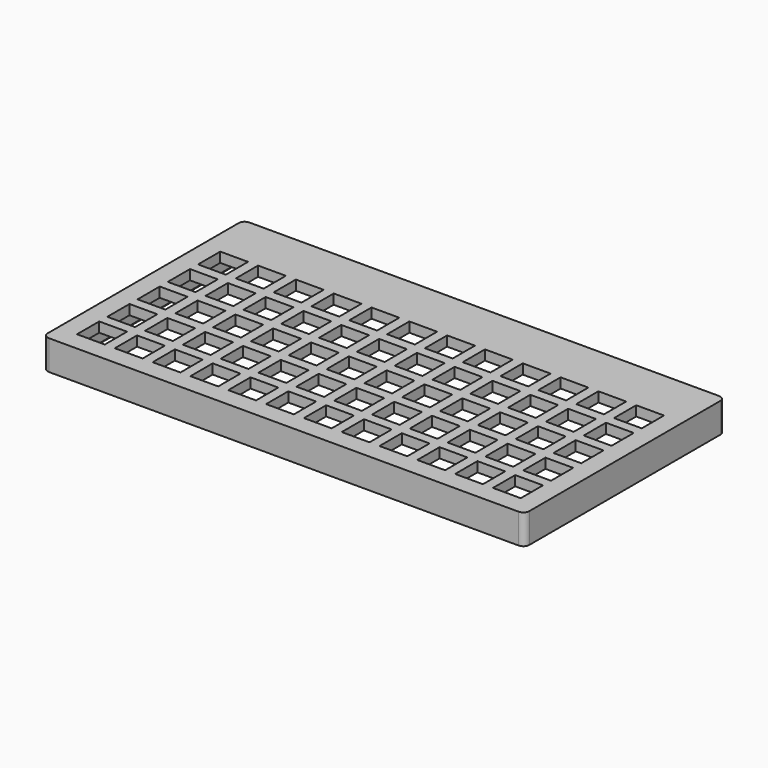
from build123d import *

# Parameters (mm, degrees)
F0_W     = 242.601293
F0_H     = 126.250293
F0_W_2   = 14.00088
F0_H_2   = 14.0009
F0_W_3   = 13.9994
F0_W_4   = 13.9993
F0_W_5   = 14.001
F0_H_3   = 14.0008
F0_H_4   = 14.0007
F0_W_6   = 13.999
F1_DEPTH = 15
F2_R     = 3
F3_W     = 14.00088
F3_H     = 14.0007
F3_W_2   = 13.9994
F3_W_3   = 13.9993
F3_W_4   = 14.001
F3_W_5   = 13.999
F3_H_2   = 14.0008
F3_H_3   = 14.0009
F4_DEPTH = 10
F6_DEPTH = 3.2


with BuildPart() as f1:
    # F0 (on Top) → F1 (new body)
    with BuildSketch(Plane.XY):
        with Locations((0, 1e-06)):
            Rectangle(F0_W, F0_H)
        with Locations((-104.776593, -46.599703)):
            Rectangle(F0_W_2, F0_H_2, mode=Mode.SUBTRACT)
        with Locations((-85.725953, -46.599703)):
            Rectangle(F0_W_3, F0_H_2, mode=Mode.SUBTRACT)
        with Locations((-66.675903, -46.599703)):
            Rectangle(F0_W_4, F0_H_2, mode=Mode.SUBTRACT)
        with Locations((-47.625903, -46.599703)):
            Rectangle(F0_W_4, F0_H_2, mode=Mode.SUBTRACT)
        with Locations((-28.575903, -46.599703)):
            Rectangle(F0_W_4, F0_H_2, mode=Mode.SUBTRACT)
        with Locations((-9.526853, -46.599703)):
            Rectangle(F0_W_5, F0_H_2, mode=Mode.SUBTRACT)
        with Locations((-104.776593, -27.549753)):
            Rectangle(F0_W_2, F0_H_3, mode=Mode.SUBTRACT)
        with Locations((-85.725953, -27.549753)):
            Rectangle(F0_W_3, F0_H_3, mode=Mode.SUBTRACT)
        with Locations((-66.675903, -27.549753)):
            Rectangle(F0_W_4, F0_H_3, mode=Mode.SUBTRACT)
        with Locations((-104.776593, -8.499703)):
            Rectangle(F0_W_2, F0_H_4, mode=Mode.SUBTRACT)
        with Locations((-85.725953, -8.499703)):
            Rectangle(F0_W_3, F0_H_4, mode=Mode.SUBTRACT)
        with Locations((-66.675903, -8.499703)):
            Rectangle(F0_W_4, F0_H_4, mode=Mode.SUBTRACT)
        with Locations((-47.625903, -27.549753)):
            Rectangle(F0_W_4, F0_H_3, mode=Mode.SUBTRACT)
        with Locations((-28.575903, -27.549753)):
            Rectangle(F0_W_4, F0_H_3, mode=Mode.SUBTRACT)
        with Locations((-9.526853, -27.549753)):
            Rectangle(F0_W_5, F0_H_3, mode=Mode.SUBTRACT)
        with Locations((-47.625903, -8.499703)):
            Rectangle(F0_W_4, F0_H_4, mode=Mode.SUBTRACT)
        with Locations((-28.575903, -8.499703)):
            Rectangle(F0_W_4, F0_H_4, mode=Mode.SUBTRACT)
        with Locations((-9.526853, -8.499703)):
            Rectangle(F0_W_5, F0_H_4, mode=Mode.SUBTRACT)
        with Locations((9.523147, -46.599703)):
            Rectangle(F0_W_5, F0_H_2, mode=Mode.SUBTRACT)
        with Locations((28.574147, -46.599703)):
            Rectangle(F0_W_6, F0_H_2, mode=Mode.SUBTRACT)
        with Locations((47.624147, -46.599703)):
            Rectangle(F0_W_6, F0_H_2, mode=Mode.SUBTRACT)
        with Locations((66.674147, -46.599703)):
            Rectangle(F0_W_6, F0_H_2, mode=Mode.SUBTRACT)
        with Locations((85.724147, -46.599703)):
            Rectangle(F0_W_6, F0_H_2, mode=Mode.SUBTRACT)
        with Locations((104.774147, -46.599703)):
            Rectangle(F0_W_6, F0_H_2, mode=Mode.SUBTRACT)
        with Locations((9.523147, -27.549753)):
            Rectangle(F0_W_5, F0_H_3, mode=Mode.SUBTRACT)
        with Locations((28.574147, -27.549753)):
            Rectangle(F0_W_6, F0_H_3, mode=Mode.SUBTRACT)
        with Locations((47.624147, -27.549753)):
            Rectangle(F0_W_6, F0_H_3, mode=Mode.SUBTRACT)
        with Locations((9.523147, -8.499703)):
            Rectangle(F0_W_5, F0_H_4, mode=Mode.SUBTRACT)
        with Locations((28.574147, -8.499703)):
            Rectangle(F0_W_6, F0_H_4, mode=Mode.SUBTRACT)
        with Locations((47.624147, -8.499703)):
            Rectangle(F0_W_6, F0_H_4, mode=Mode.SUBTRACT)
        with Locations((66.674147, -27.549753)):
            Rectangle(F0_W_6, F0_H_3, mode=Mode.SUBTRACT)
        with Locations((85.724147, -27.549753)):
            Rectangle(F0_W_6, F0_H_3, mode=Mode.SUBTRACT)
        with Locations((104.774147, -27.549753)):
            Rectangle(F0_W_6, F0_H_3, mode=Mode.SUBTRACT)
        with Locations((66.674147, -8.499703)):
            Rectangle(F0_W_6, F0_H_4, mode=Mode.SUBTRACT)
        with Locations((85.724147, -8.499703)):
            Rectangle(F0_W_6, F0_H_4, mode=Mode.SUBTRACT)
        with Locations((104.774147, -8.499703)):
            Rectangle(F0_W_6, F0_H_4, mode=Mode.SUBTRACT)
        with Locations((-104.776593, 10.550297)):
            Rectangle(F0_W_2, F0_H_4, mode=Mode.SUBTRACT)
        with Locations((-85.725953, 10.550297)):
            Rectangle(F0_W_3, F0_H_4, mode=Mode.SUBTRACT)
        with Locations((-66.675903, 10.550297)):
            Rectangle(F0_W_4, F0_H_4, mode=Mode.SUBTRACT)
        with Locations((-104.776593, 29.600297)):
            Rectangle(F0_W_2, F0_H_4, mode=Mode.SUBTRACT)
        with Locations((-85.725953, 29.600297)):
            Rectangle(F0_W_3, F0_H_4, mode=Mode.SUBTRACT)
        with Locations((-66.675903, 29.600297)):
            Rectangle(F0_W_4, F0_H_4, mode=Mode.SUBTRACT)
        with Locations((-47.625903, 10.550297)):
            Rectangle(F0_W_4, F0_H_4, mode=Mode.SUBTRACT)
        with Locations((-28.575903, 10.550297)):
            Rectangle(F0_W_4, F0_H_4, mode=Mode.SUBTRACT)
        with Locations((-9.526853, 10.550297)):
            Rectangle(F0_W_5, F0_H_4, mode=Mode.SUBTRACT)
        with Locations((-47.625903, 29.600297)):
            Rectangle(F0_W_4, F0_H_4, mode=Mode.SUBTRACT)
        with Locations((-28.575903, 29.600297)):
            Rectangle(F0_W_4, F0_H_4, mode=Mode.SUBTRACT)
        with Locations((-9.526853, 29.600297)):
            Rectangle(F0_W_5, F0_H_4, mode=Mode.SUBTRACT)
        with Locations((9.523147, 10.550297)):
            Rectangle(F0_W_5, F0_H_4, mode=Mode.SUBTRACT)
        with Locations((28.574147, 10.550297)):
            Rectangle(F0_W_6, F0_H_4, mode=Mode.SUBTRACT)
        with Locations((47.624147, 10.550297)):
            Rectangle(F0_W_6, F0_H_4, mode=Mode.SUBTRACT)
        with Locations((9.523147, 29.600297)):
            Rectangle(F0_W_5, F0_H_4, mode=Mode.SUBTRACT)
        with Locations((28.574147, 29.600297)):
            Rectangle(F0_W_6, F0_H_4, mode=Mode.SUBTRACT)
        with Locations((47.624147, 29.600297)):
            Rectangle(F0_W_6, F0_H_4, mode=Mode.SUBTRACT)
        with Locations((66.674147, 10.550297)):
            Rectangle(F0_W_6, F0_H_4, mode=Mode.SUBTRACT)
        with Locations((85.724147, 10.550297)):
            Rectangle(F0_W_6, F0_H_4, mode=Mode.SUBTRACT)
        with Locations((104.774147, 10.550297)):
            Rectangle(F0_W_6, F0_H_4, mode=Mode.SUBTRACT)
        with Locations((66.674147, 29.600297)):
            Rectangle(F0_W_6, F0_H_4, mode=Mode.SUBTRACT)
        with Locations((85.724147, 29.600297)):
            Rectangle(F0_W_6, F0_H_4, mode=Mode.SUBTRACT)
        with Locations((104.774147, 29.600297)):
            Rectangle(F0_W_6, F0_H_4, mode=Mode.SUBTRACT)
    extrude(amount=-F1_DEPTH)

    # F2
    f2_edges = [f1.edges().sort_by_distance(p)[0] for p in [
        (-121.300646, 63.125147, -7.5),
        (121.300647, 63.125147, -7.5),
        (121.300647, -63.125146, -7.5),
        (-121.300646, -63.125146, -7.5),
    ]]
    fillet(f2_edges, radius=F2_R)

    # F3 (on face) → F4 (cut)
    with BuildSketch(Plane(origin=(0, 0, -15), x_dir=(1, 0, 0), z_dir=(0, 0, -1))):
        with BuildLine():
            Line((-111.300647, -56.125147), (111.300647, -56.125147))
            ThreePointArc((111.300647, -56.125147), (113.421967, -55.246467), (114.300647, -53.125147))
            Line((114.300647, -53.125147), (114.300647, 53.125147))
            ThreePointArc((114.300647, 53.125147), (113.421967, 55.246467), (111.300647, 56.125147))
            Line((111.300647, 56.125147), (-111.300647, 56.125147))
            ThreePointArc((-111.300647, 56.125147), (-113.421967, 55.246467), (-114.300647, 53.125147))
            Line((-114.300647, 53.125147), (-114.300647, -53.125147))
            ThreePointArc((-114.300647, -53.125147), (-113.421967, -55.246467), (-111.300647, -56.125147))
        make_face()
        with Locations((-104.776593, -29.600297)):
            Rectangle(F3_W, F3_H, mode=Mode.SUBTRACT)
        with Locations((-85.725953, -29.600297)):
            Rectangle(F3_W_2, F3_H, mode=Mode.SUBTRACT)
        with Locations((-66.675903, -29.600297)):
            Rectangle(F3_W_3, F3_H, mode=Mode.SUBTRACT)
        with Locations((-104.776593, -10.550297)):
            Rectangle(F3_W, F3_H, mode=Mode.SUBTRACT)
        with Locations((-85.725953, -10.550297)):
            Rectangle(F3_W_2, F3_H, mode=Mode.SUBTRACT)
        with Locations((-66.675903, -10.550297)):
            Rectangle(F3_W_3, F3_H, mode=Mode.SUBTRACT)
        with Locations((-47.625903, -29.600297)):
            Rectangle(F3_W_3, F3_H, mode=Mode.SUBTRACT)
        with Locations((-28.575903, -29.600297)):
            Rectangle(F3_W_3, F3_H, mode=Mode.SUBTRACT)
        with Locations((-9.526853, -29.600297)):
            Rectangle(F3_W_4, F3_H, mode=Mode.SUBTRACT)
        with Locations((-47.625903, -10.550297)):
            Rectangle(F3_W_3, F3_H, mode=Mode.SUBTRACT)
        with Locations((-28.575903, -10.550297)):
            Rectangle(F3_W_3, F3_H, mode=Mode.SUBTRACT)
        with Locations((-9.526853, -10.550297)):
            Rectangle(F3_W_4, F3_H, mode=Mode.SUBTRACT)
        with Locations((9.523147, -29.600297)):
            Rectangle(F3_W_4, F3_H, mode=Mode.SUBTRACT)
        with Locations((28.574147, -29.600297)):
            Rectangle(F3_W_5, F3_H, mode=Mode.SUBTRACT)
        with Locations((47.624147, -29.600297)):
            Rectangle(F3_W_5, F3_H, mode=Mode.SUBTRACT)
        with Locations((9.523147, -10.550297)):
            Rectangle(F3_W_4, F3_H, mode=Mode.SUBTRACT)
        with Locations((28.574147, -10.550297)):
            Rectangle(F3_W_5, F3_H, mode=Mode.SUBTRACT)
        with Locations((47.624147, -10.550297)):
            Rectangle(F3_W_5, F3_H, mode=Mode.SUBTRACT)
        with Locations((66.674147, -29.600297)):
            Rectangle(F3_W_5, F3_H, mode=Mode.SUBTRACT)
        with Locations((85.724147, -29.600297)):
            Rectangle(F3_W_5, F3_H, mode=Mode.SUBTRACT)
        with Locations((104.774147, -29.600297)):
            Rectangle(F3_W_5, F3_H, mode=Mode.SUBTRACT)
        with Locations((66.674147, -10.550297)):
            Rectangle(F3_W_5, F3_H, mode=Mode.SUBTRACT)
        with Locations((85.724147, -10.550297)):
            Rectangle(F3_W_5, F3_H, mode=Mode.SUBTRACT)
        with Locations((104.774147, -10.550297)):
            Rectangle(F3_W_5, F3_H, mode=Mode.SUBTRACT)
        with Locations((-104.776593, 8.499703)):
            Rectangle(F3_W, F3_H, mode=Mode.SUBTRACT)
        with Locations((-85.725953, 8.499703)):
            Rectangle(F3_W_2, F3_H, mode=Mode.SUBTRACT)
        with Locations((-66.675903, 8.499703)):
            Rectangle(F3_W_3, F3_H, mode=Mode.SUBTRACT)
        with Locations((-104.776593, 27.549753)):
            Rectangle(F3_W, F3_H_2, mode=Mode.SUBTRACT)
        with Locations((-85.725953, 27.549753)):
            Rectangle(F3_W_2, F3_H_2, mode=Mode.SUBTRACT)
        with Locations((-66.675903, 27.549753)):
            Rectangle(F3_W_3, F3_H_2, mode=Mode.SUBTRACT)
        with Locations((-47.625903, 8.499703)):
            Rectangle(F3_W_3, F3_H, mode=Mode.SUBTRACT)
        with Locations((-28.575903, 8.499703)):
            Rectangle(F3_W_3, F3_H, mode=Mode.SUBTRACT)
        with Locations((-9.526853, 8.499703)):
            Rectangle(F3_W_4, F3_H, mode=Mode.SUBTRACT)
        with Locations((-47.625903, 27.549753)):
            Rectangle(F3_W_3, F3_H_2, mode=Mode.SUBTRACT)
        with Locations((-28.575903, 27.549753)):
            Rectangle(F3_W_3, F3_H_2, mode=Mode.SUBTRACT)
        with Locations((-9.526853, 27.549753)):
            Rectangle(F3_W_4, F3_H_2, mode=Mode.SUBTRACT)
        with Locations((-104.776593, 46.599703)):
            Rectangle(F3_W, F3_H_3, mode=Mode.SUBTRACT)
        with Locations((-85.725953, 46.599703)):
            Rectangle(F3_W_2, F3_H_3, mode=Mode.SUBTRACT)
        with Locations((-66.675903, 46.599703)):
            Rectangle(F3_W_3, F3_H_3, mode=Mode.SUBTRACT)
        with Locations((-47.625903, 46.599703)):
            Rectangle(F3_W_3, F3_H_3, mode=Mode.SUBTRACT)
        with Locations((-28.575903, 46.599703)):
            Rectangle(F3_W_3, F3_H_3, mode=Mode.SUBTRACT)
        with Locations((-9.526853, 46.599703)):
            Rectangle(F3_W_4, F3_H_3, mode=Mode.SUBTRACT)
        with Locations((9.523147, 8.499703)):
            Rectangle(F3_W_4, F3_H, mode=Mode.SUBTRACT)
        with Locations((28.574147, 8.499703)):
            Rectangle(F3_W_5, F3_H, mode=Mode.SUBTRACT)
        with Locations((47.624147, 8.499703)):
            Rectangle(F3_W_5, F3_H, mode=Mode.SUBTRACT)
        with Locations((9.523147, 27.549753)):
            Rectangle(F3_W_4, F3_H_2, mode=Mode.SUBTRACT)
        with Locations((28.574147, 27.549753)):
            Rectangle(F3_W_5, F3_H_2, mode=Mode.SUBTRACT)
        with Locations((47.624147, 27.549753)):
            Rectangle(F3_W_5, F3_H_2, mode=Mode.SUBTRACT)
        with Locations((66.674147, 8.499703)):
            Rectangle(F3_W_5, F3_H, mode=Mode.SUBTRACT)
        with Locations((85.724147, 8.499703)):
            Rectangle(F3_W_5, F3_H, mode=Mode.SUBTRACT)
        with Locations((104.774147, 8.499703)):
            Rectangle(F3_W_5, F3_H, mode=Mode.SUBTRACT)
        with Locations((66.674147, 27.549753)):
            Rectangle(F3_W_5, F3_H_2, mode=Mode.SUBTRACT)
        with Locations((85.724147, 27.549753)):
            Rectangle(F3_W_5, F3_H_2, mode=Mode.SUBTRACT)
        with Locations((104.774147, 27.549753)):
            Rectangle(F3_W_5, F3_H_2, mode=Mode.SUBTRACT)
        with Locations((9.523147, 46.599703)):
            Rectangle(F3_W_4, F3_H_3, mode=Mode.SUBTRACT)
        with Locations((28.574147, 46.599703)):
            Rectangle(F3_W_5, F3_H_3, mode=Mode.SUBTRACT)
        with Locations((47.624147, 46.599703)):
            Rectangle(F3_W_5, F3_H_3, mode=Mode.SUBTRACT)
        with Locations((66.674147, 46.599703)):
            Rectangle(F3_W_5, F3_H_3, mode=Mode.SUBTRACT)
        with Locations((85.724147, 46.599703)):
            Rectangle(F3_W_5, F3_H_3, mode=Mode.SUBTRACT)
        with Locations((104.774147, 46.599703)):
            Rectangle(F3_W_5, F3_H_3, mode=Mode.SUBTRACT)
    extrude(amount=-F4_DEPTH, mode=Mode.SUBTRACT)

    # F5 (on face) → F6 (cut)
    with BuildSketch(Plane(origin=(0, 0, -15), x_dir=(1, 0, 0), z_dir=(0, 0, -1))):
        with BuildLine():
            Line((114.800646, 59.625146), (-114.800646, 59.625146))
            ThreePointArc((-114.800646, 59.625146), (-116.921966, 58.746466), (-117.800646, 56.625146))
            Line((-117.800646, 56.625146), (-117.800646, -56.625146))
            ThreePointArc((-117.800646, -56.625146), (-116.921966, -58.746466), (-114.800646, -59.625146))
            Line((-114.800646, -59.625146), (114.800646, -59.625146))
            ThreePointArc((114.800646, -59.625146), (116.921966, -58.746466), (117.800646, -56.625146))
            Line((117.800646, -56.625146), (117.800646, 56.625146))
            ThreePointArc((117.800646, 56.625146), (116.921966, 58.746466), (114.800646, 59.625146))
        make_face()
    extrude(amount=-F6_DEPTH, mode=Mode.SUBTRACT)


solid = f1.part
